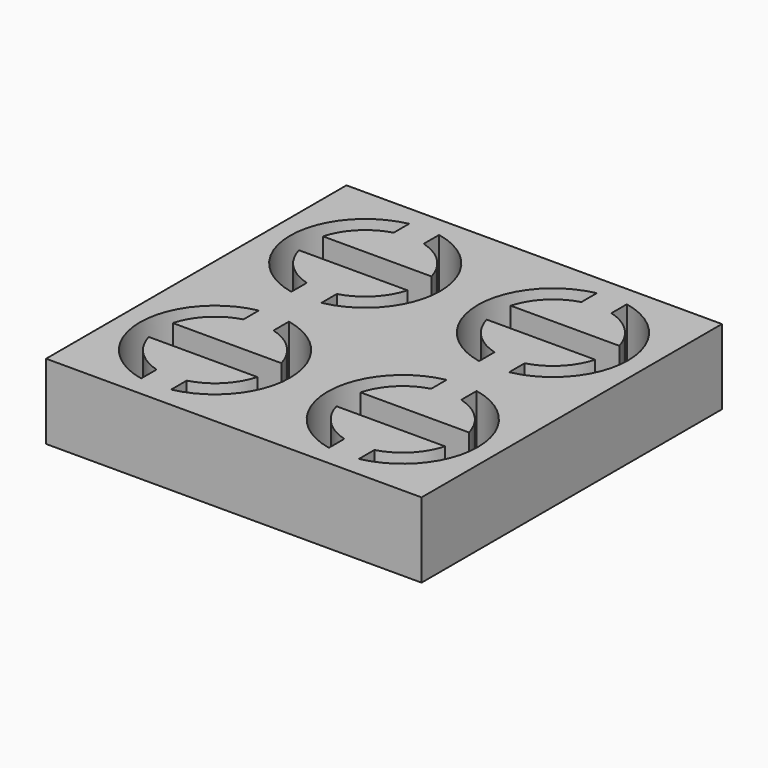
from build123d import *

# Parameters (mm, degrees)
F1_W     = 50
F1_H     = 50
F2_DEPTH = 10


with BuildPart() as f2:
    # F1 (on Top) → F2 (new body)
    with BuildSketch(Plane.XY):
        Rectangle(F1_W, F1_H)
        with BuildLine():
            Line((-14.5, -19.7284161474), (-14.5, -22.2979589711))
            ThreePointArc((-14.5, -22.2979589711), (-22.5, -12.5), (-14.5, -2.7020410289))
            Line((-14.5, -2.7020410289), (-14.5, -5.2715838526))
            ThreePointArc((-14.5, -5.2715838526), (-17.8033008589, -7.1966991411), (-19.7284161474, -10.5))
            Line((-19.7284161474, -10.5), (-5.2715838526, -10.5))
            ThreePointArc((-5.2715838526, -10.5), (-7.1966991411, -7.1966991411), (-10.5, -5.2715838526))
            Line((-10.5, -5.2715838526), (-10.5, -2.7020410289))
            ThreePointArc((-10.5, -2.7020410289), (-2.5, -12.5), (-10.5, -22.2979589711))
            Line((-10.5, -22.2979589711), (-10.5, -19.7284161474))
            ThreePointArc((-10.5, -19.7284161474), (-7.1966991411, -17.8033008589), (-5.2715838526, -14.5))
            Line((-5.2715838526, -14.5), (-19.7284161474, -14.5))
            ThreePointArc((-19.7284161474, -14.5), (-17.8033008589, -17.8033008589), (-14.5, -19.7284161474))
        make_face(mode=Mode.SUBTRACT)
        with BuildLine():
            ThreePointArc((10.5, -22.2979589711), (2.5, -12.5), (10.5, -2.7020410289))
            Line((10.5, -2.7020410289), (10.5, -5.2715838526))
            ThreePointArc((10.5, -5.2715838526), (7.1966991411, -7.1966991411), (5.2715838526, -10.5))
            Line((5.2715838526, -10.5), (19.7284161474, -10.5))
            ThreePointArc((19.7284161474, -10.5), (17.8033008589, -7.1966991411), (14.5, -5.2715838526))
            Line((14.5, -5.2715838526), (14.5, -2.7020410289))
            ThreePointArc((14.5, -2.7020410289), (22.5, -12.5), (14.5, -22.2979589711))
            Line((14.5, -22.2979589711), (14.5, -19.7284161474))
            ThreePointArc((14.5, -19.7284161474), (17.8033008589, -17.8033008589), (19.7284161474, -14.5))
            Line((19.7284161474, -14.5), (5.2715838526, -14.5))
            ThreePointArc((5.2715838526, -14.5), (7.1966991411, -17.8033008589), (10.5, -19.7284161474))
            Line((10.5, -19.7284161474), (10.5, -22.2979589711))
        make_face(mode=Mode.SUBTRACT)
        with BuildLine():
            ThreePointArc((-14.5, 2.7020410289), (-22.5, 12.5), (-14.5, 22.2979589711))
            Line((-14.5, 22.2979589711), (-14.5, 19.7284161474))
            ThreePointArc((-14.5, 19.7284161474), (-17.8033008589, 17.8033008589), (-19.7284161474, 14.5))
            Line((-19.7284161474, 14.5), (-5.2715838526, 14.5))
            ThreePointArc((-5.2715838526, 14.5), (-7.1966991411, 17.8033008589), (-10.5, 19.7284161474))
            Line((-10.5, 19.7284161474), (-10.5, 22.2979589711))
            ThreePointArc((-10.5, 22.2979589711), (-2.5, 12.5), (-10.5, 2.7020410289))
            Line((-10.5, 2.7020410289), (-10.5, 5.2715838526))
            ThreePointArc((-10.5, 5.2715838526), (-7.1966991411, 7.1966991411), (-5.2715838526, 10.5))
            Line((-5.2715838526, 10.5), (-19.7284161474, 10.5))
            ThreePointArc((-19.7284161474, 10.5), (-17.8033008589, 7.1966991411), (-14.5, 5.2715838526))
            Line((-14.5, 5.2715838526), (-14.5, 2.7020410289))
        make_face(mode=Mode.SUBTRACT)
        with BuildLine():
            Line((14.5, 2.7020410289), (14.5, 5.2715838526))
            ThreePointArc((14.5, 5.2715838526), (17.8033008589, 7.1966991411), (19.7284161474, 10.5))
            Line((19.7284161474, 10.5), (5.2715838526, 10.5))
            ThreePointArc((5.2715838526, 10.5), (7.1966991411, 7.1966991411), (10.5, 5.2715838526))
            Line((10.5, 5.2715838526), (10.5, 2.7020410289))
            ThreePointArc((10.5, 2.7020410289), (2.5, 12.5), (10.5, 22.2979589711))
            Line((10.5, 22.2979589711), (10.5, 19.7284161474))
            ThreePointArc((10.5, 19.7284161474), (7.1966991411, 17.8033008589), (5.2715838526, 14.5))
            Line((5.2715838526, 14.5), (19.7284161474, 14.5))
            ThreePointArc((19.7284161474, 14.5), (17.8033008589, 17.8033008589), (14.5, 19.7284161474))
            Line((14.5, 19.7284161474), (14.5, 22.2979589711))
            ThreePointArc((14.5, 22.2979589711), (22.5, 12.5), (14.5, 2.7020410289))
        make_face(mode=Mode.SUBTRACT)
    extrude(amount=F2_DEPTH)


solid = f2.part
